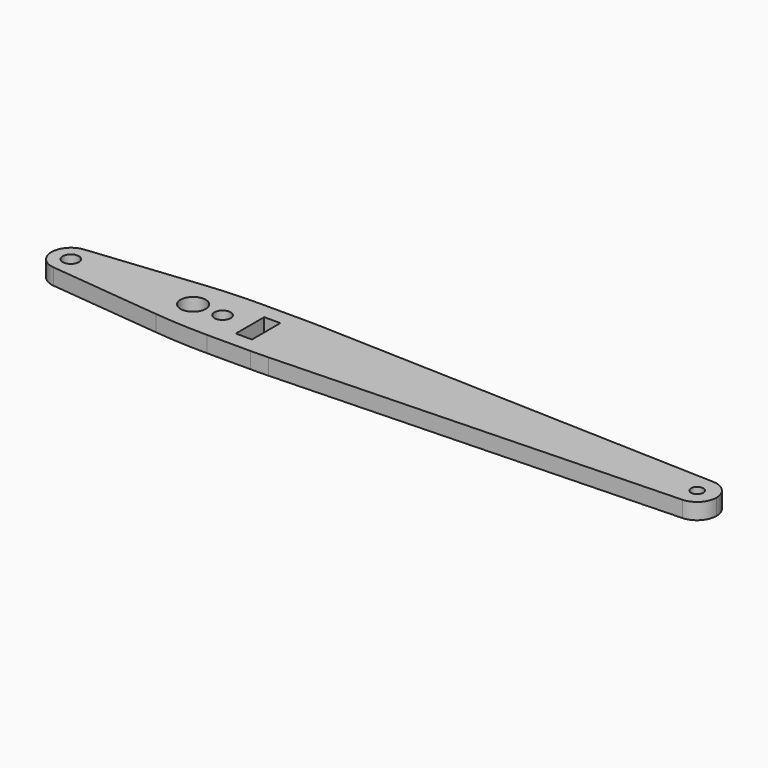
from build123d import *

# Parameters (mm, degrees)
F2_DEPTH = 6.35
F3_R     = 3.175
F3_R_2   = 4.9403
F3_R_3   = 2.413
F4_DEPTH = 6.35
F5_W     = 6.35
F5_H     = 13.97
F6_DEPTH = 6.35


with BuildPart() as f2:
    # F1 (on Top) → F2 (new body)
    with BuildSketch(Plane.XY):
        with BuildLine():
            Line((38.1, 13.212064), (20.927279, 13.212064))
            ThreePointArc((20.927279, 13.212064), (10.449702, 12.941757), (0, 12.131556))
            Line((0, 12.131556), (-43.964773, 7.579481))
            ThreePointArc((-43.964773, 7.579481), (-48.838815, 5.103157), (-50.8, 0))
            ThreePointArc((-50.8, 0), (-48.838815, -5.103157), (-43.964773, -7.579481))
            Line((-43.964773, -7.579481), (0, -12.131556))
            ThreePointArc((0, -12.131556), (10.449702, -12.941757), (20.927279, -13.212064))
            Line((20.927279, -13.212064), (38.1, -13.212064))
            ThreePointArc((38.1, -13.212064), (41.611629, -13.181718), (45.12221, -13.090691))
            Line((45.12221, -13.090691), (203.463333, -7.615448))
            ThreePointArc((203.463333, -7.615448), (208.680465, -5.294233), (210.82, 0))
            ThreePointArc((210.82, 0), (208.680465, 5.294233), (203.463333, 7.615448))
            Line((203.463333, 7.615448), (45.12221, 13.090691))
            ThreePointArc((45.12221, 13.090691), (41.611629, 13.181718), (38.1, 13.212064))
        make_face()
    extrude(amount=-F2_DEPTH)

    # F3 (on face) → F4 (cut, through all)
    with BuildSketch(Plane.XY):
        with Locations((-43.18, 0)):
            Circle(F3_R)
        with Locations((16.51, 0)):
            Circle(F3_R)
        with Locations((4.9276, 0)):
            Circle(F3_R_2)
        with Locations((203.2, 0)):
            Circle(F3_R_3)
    extrude(amount=-F4_DEPTH, mode=Mode.SUBTRACT)

    # F5 (on face) → F6 (cut, through all)
    with BuildSketch(Plane.XY):
        with Locations((30.48, 0)):
            Rectangle(F5_W, F5_H)
    extrude(amount=-F6_DEPTH, mode=Mode.SUBTRACT)


solid = f2.part
